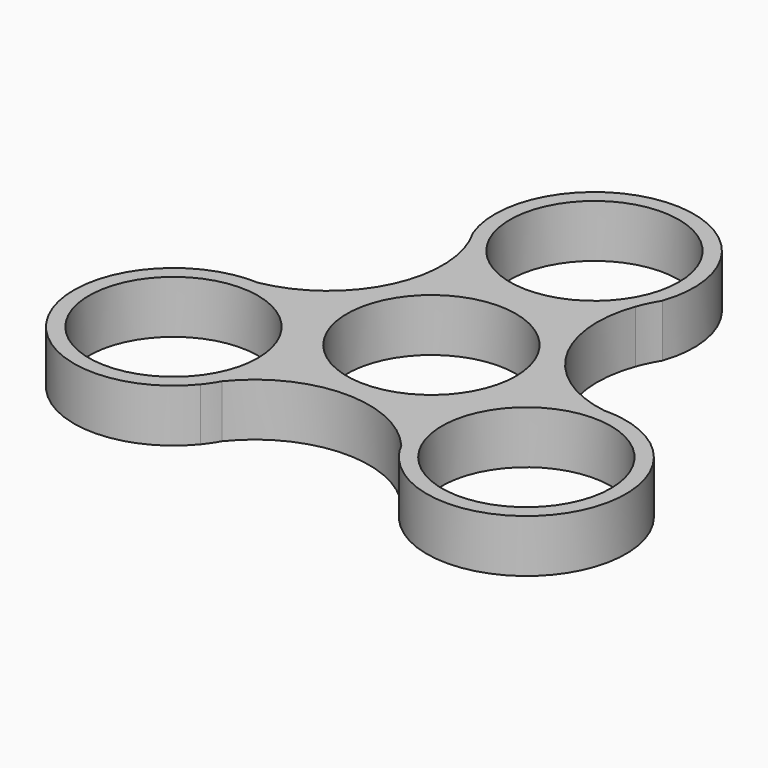
from build123d import *

# Parameters (mm, degrees)
F0_R     = 11.2
F1_DEPTH = 7


with BuildPart() as f1:
    # F0 (on Top) → F1 (new body)
    with BuildSketch(Plane.XY):
        with BuildLine():
            ThreePointArc((-25.894576, -0.544753), (-24.337926, -0.511438), (-22.792865, -0.31894))
            ThreePointArc((-22.792865, -0.31894), (-24.350394, -0.340182), (-25.894576, -0.544753))
        make_face()
        with BuildLine():
            ThreePointArc((-12.340138, 22.324422), (-11.650053, 8.271565), (-22.792865, -0.31894))
            ThreePointArc((-22.792865, -0.31894), (-24.337926, -0.511438), (-25.894576, -0.544753))
            ThreePointArc((-25.894576, -0.544753), (-34.722899, -20.276543), (-13.163448, -21.849084))
            ThreePointArc((-13.163448, -21.849084), (-12.539136, -20.843398), (-11.838405, -19.889381))
            ThreePointArc((-11.838405, -19.889381), (-0.156257, -14.163327), (11.672642, -19.57973))
            ThreePointArc((11.672642, -19.57973), (12.611881, -20.821543), (13.419058, -22.152984))
            ThreePointArc((13.419058, -22.152984), (34.921451, -19.932641), (25.503586, -0.475338))
            ThreePointArc((25.503586, -0.475338), (24.32048, -0.437511), (23.143912, -0.307669))
            ThreePointArc((23.143912, -0.307669), (12.34393, 6.946341), (11.120222, 19.89867))
            ThreePointArc((11.120222, 19.89867), (11.726045, 21.332981), (12.475518, 22.697737))
            ThreePointArc((12.475518, 22.697737), (-0.198552, 40.209184), (-12.340138, 22.324422))
        make_face()
        with Locations((-23.391933, -13.505339)):
            Circle(F0_R, mode=Mode.SUBTRACT)
        with Locations((23.391933, -13.505339)):
            Circle(F0_R, mode=Mode.SUBTRACT)
        Circle(F0_R, mode=Mode.SUBTRACT)
        with Locations((0, 27.010677)):
            Circle(F0_R, mode=Mode.SUBTRACT)
        with BuildLine():
            ThreePointArc((-11.838405, -19.889381), (-12.539136, -20.843398), (-13.163448, -21.849084))
            ThreePointArc((-13.163448, -21.849084), (-12.456937, -20.898976), (-11.838405, -19.889381))
        make_face()
        with BuildLine():
            ThreePointArc((13.419058, -22.152984), (12.611881, -20.821543), (11.672642, -19.57973))
            ThreePointArc((11.672642, -19.57973), (12.469803, -20.917969), (13.419058, -22.152984))
        make_face()
        with BuildLine():
            ThreePointArc((25.503586, -0.475338), (24.327513, -0.338536), (23.143912, -0.307669))
            ThreePointArc((23.143912, -0.307669), (24.32048, -0.437511), (25.503586, -0.475338))
        make_face()
    extrude(amount=F1_DEPTH)


solid = f1.part
